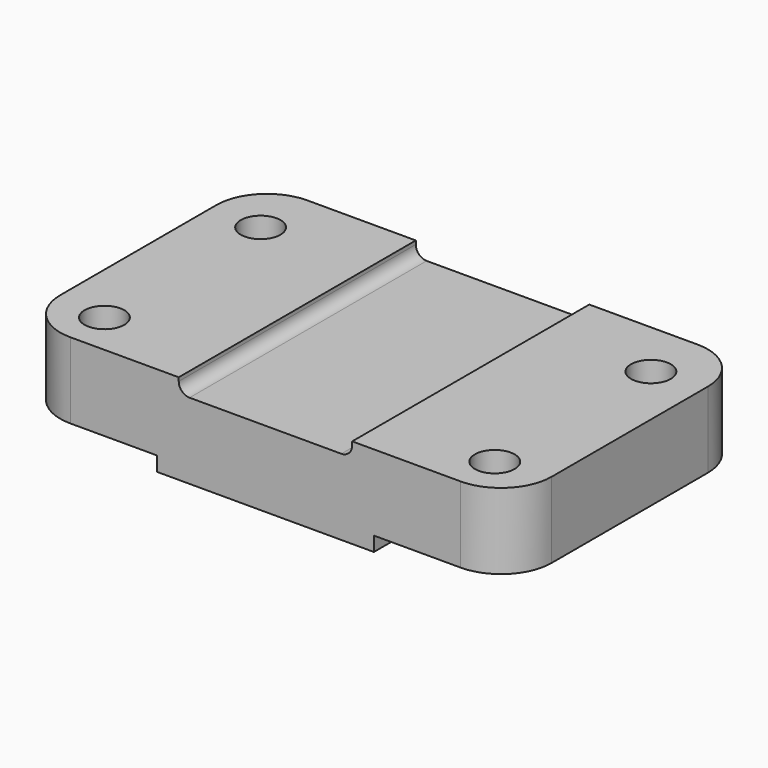
from build123d import *

# Parameters (mm, degrees)
F0_W     = 44
F0_H     = 82
F0_R     = 5.5
F0_W_2   = 48
F1_DEPTH = 12.5
F2_R     = 14
F3_W     = 48
F3_H     = 4
F4_DEPTH = 82.001
F5_R     = 3
F6_W     = 38
F6_H     = 4
F7_DEPTH = 82.001


with BuildPart() as f1:
    # F0 (on Top) → F1 (new body, symmetric)
    with BuildSketch(Plane.XY):
        with Locations((22, 41)):
            Rectangle(F0_W, F0_H)
        with Locations((14, 11.8173863739)):
            Circle(F0_R, mode=Mode.SUBTRACT)
        with Locations((14, 65.8173863739)):
            Circle(F0_R, mode=Mode.SUBTRACT)
        with Locations((68, 41)):
            Rectangle(F0_W_2, F0_H)
        with Locations((114, 41)):
            Rectangle(F0_W, F0_H)
        with Locations((122, 11.8173863739)):
            Circle(F0_R, mode=Mode.SUBTRACT)
        with Locations((122, 65.8173863739)):
            Circle(F0_R, mode=Mode.SUBTRACT)
    extrude(amount=F1_DEPTH, both=True)

    # F2
    f2_edges = [f1.edges().sort_by_distance(p)[0] for p in [
        (0, 82, 0),
        (136, 82, 0),
        (136, 0, 0),
        (0, 0, 0),
    ]]
    fillet(f2_edges, radius=F2_R)

    # F3 (on face) → F4 (cut, through all)
    with BuildSketch(Plane.XZ):
        with Locations((68, 10.5)):
            Rectangle(F3_W, F3_H)
    extrude(amount=-F4_DEPTH, mode=Mode.SUBTRACT)

    # F5
    f5_edges = [f1.edges().sort_by_distance(p)[0] for p in [
        (44, 41, 8.5),
        (92, 41, 8.5),
    ]]
    fillet(f5_edges, radius=F5_R)

    # F6 (on face) → F7 (cut, through all)
    with BuildSketch(Plane.XZ):
        with Locations((117, -10.5)):
            Rectangle(F6_W, F6_H)
        with Locations((19, -10.5)):
            Rectangle(F6_W, F6_H)
    extrude(amount=-F7_DEPTH, mode=Mode.SUBTRACT)


solid = f1.part
